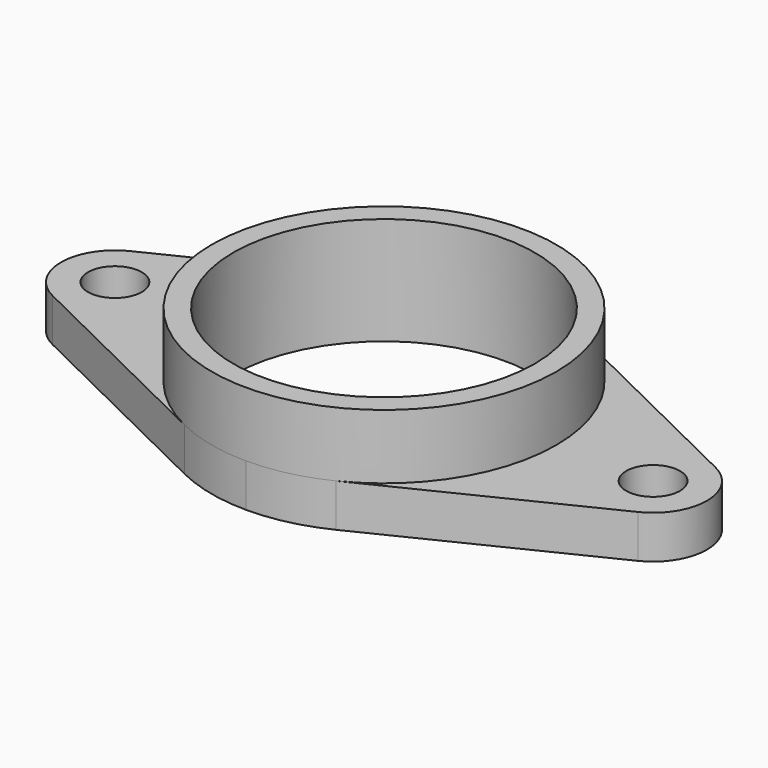
from build123d import *

# Parameters (mm, degrees)
SKETCH_R     = 5
PAD_DEPTH    = 8
SKETCH001_R  = 32
PAD001_DEPTH = 20
SKETCH002_R  = 28
POCKET_DEPTH = 20.0010001


with BuildPart() as part:
    # Sketch → Pad (new body)
    with BuildSketch(Plane.XY):
        with BuildLine():
            Line((-54.4, 8.9799777283), (-14.08, 28.7359287304))
            ThreePointArc((0, 32), (-7.2266963623, 31.1733036377), (-14.08, 28.7359287304))
            Line((0, -32), (0, 32))
            ThreePointArc((-14.08, -28.7359287304), (-7.2266963623, -31.1733036377), (0, -32))
            Line((-54.4, -8.9799777283), (-14.08, -28.7359287304))
            ThreePointArc((-54.4, 8.9799777283), (-60, 0), (-54.4, -8.9799777283))
        make_face()
        with Locations((-50, 0)):
            Circle(SKETCH_R, mode=Mode.SUBTRACT)
    pad = extrude(amount=PAD_DEPTH)

    # Mirrored: Pad across Sketch V_Axis
    add(pad.mirror(Plane(origin=(0, 0, 0), x_dir=(0, 0, 1), z_dir=(1, 0, 0))))

    # Sketch001 → Pad001 (join)
    with BuildSketch(Plane.XY):
        Circle(SKETCH001_R)
    extrude(amount=PAD001_DEPTH)

    # Sketch002 → Pocket (cut, through all)
    with BuildSketch(Plane.XY):
        Circle(SKETCH002_R)
    extrude(amount=POCKET_DEPTH, mode=Mode.SUBTRACT)


solid = part.part
